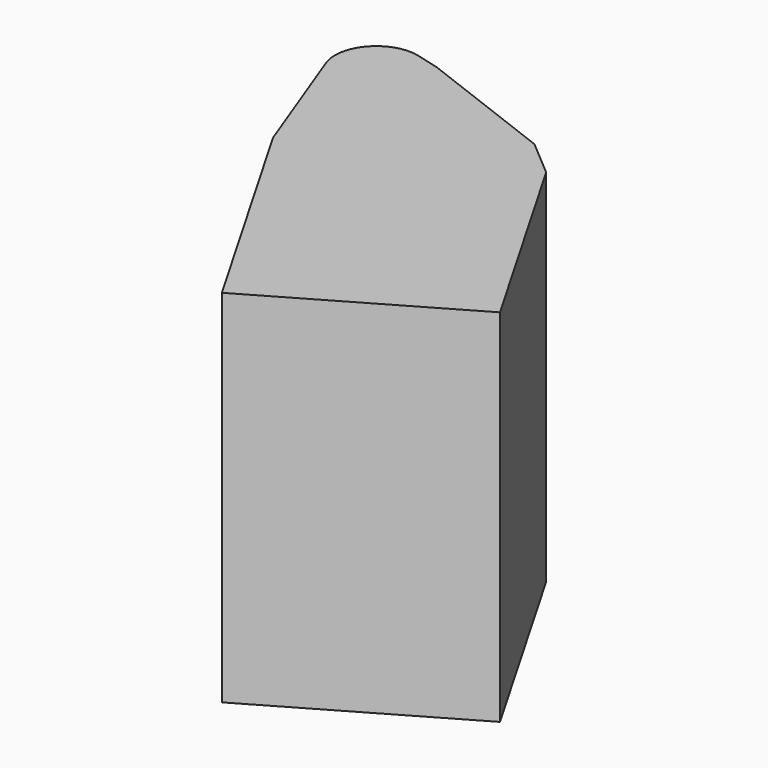
from build123d import *

# Parameters (mm, degrees)
F1_DEPTH = 71.12
F2_DEPTH = 52.324
F3_SIZE  = 5.08
F4_R     = 8.142383265


with BuildPart() as f1:
    # F0 (on Top) → F1 (new body)
    with BuildSketch(Plane.XY):
        Polygon((7.5089540333, 17.2860901803), (-12.2935976833, 22.5921664387), (2.4708837736, -16.8182179332), (39.9978423606, 4.8479831407), align=None)
    extrude(amount=F1_DEPTH)

    # F2 (add): a face of the model
    f2_faces = [f1.faces().sort_by_distance(p)[0] for p in [
        (21.2343630671, -5.9851173963, 35.56),
    ]]
    extrude(f2_faces, amount=F2_DEPTH)

    # F3
    f3_edges = [f1.edges().sort_by_distance(p)[0] for p in [
        (39.997842, 4.847983, 35.56),
    ]]
    chamfer(f3_edges, length=F3_SIZE)

    # F4
    f4_edges = [f1.edges().sort_by_distance(p)[0] for p in [
        (-12.293598, 22.592166, 35.56),
    ]]
    fillet(f4_edges, radius=F4_R)


solid = f1.part
